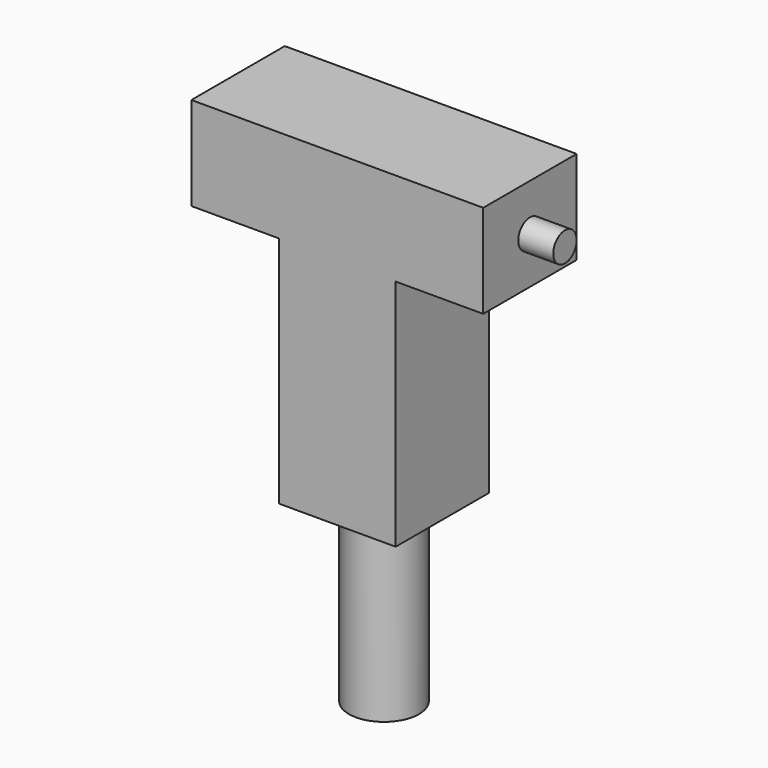
from build123d import *

# Parameters (mm, degrees)
F0_W     = 3
F0_H     = 35
F2_W     = 31
F2_H     = 1.25
F4_W     = 10
F4_H     = 20
F5_DEPTH = 5


with BuildPart() as f1:
    # F0 (on Front) → F1 (revolve)
    with BuildSketch(Plane.XZ):
        with Locations((1.5, -21.807702)):
            Rectangle(F0_W, F0_H)
    revolve(axis=Axis((0, 0, -11.000003), (0, 0, -1)))


with BuildPart() as f3:
    # F2 (on Front) → F3 (revolve)
    with BuildSketch(Plane.XZ):
        with Locations((0, 0.625)):
            Rectangle(F2_W, F2_H)
    revolve(axis=Axis((-2.146152, 0, 0), (1, 0, 0)))


with BuildPart() as f5:
    # F4 (on Front) → F5 (new body, symmetric)
    with BuildSketch(Plane.XZ):
        Polygon((12.5, -4), (12.5, 4), (-12.5, 4), (-12.5, -4), (-5, -4), (5, -4), align=None)
        with Locations((0, -14)):
            Rectangle(F4_W, F4_H)
    extrude(amount=F5_DEPTH, both=True)


solid = Compound([f1.part, f3.part, f5.part])
